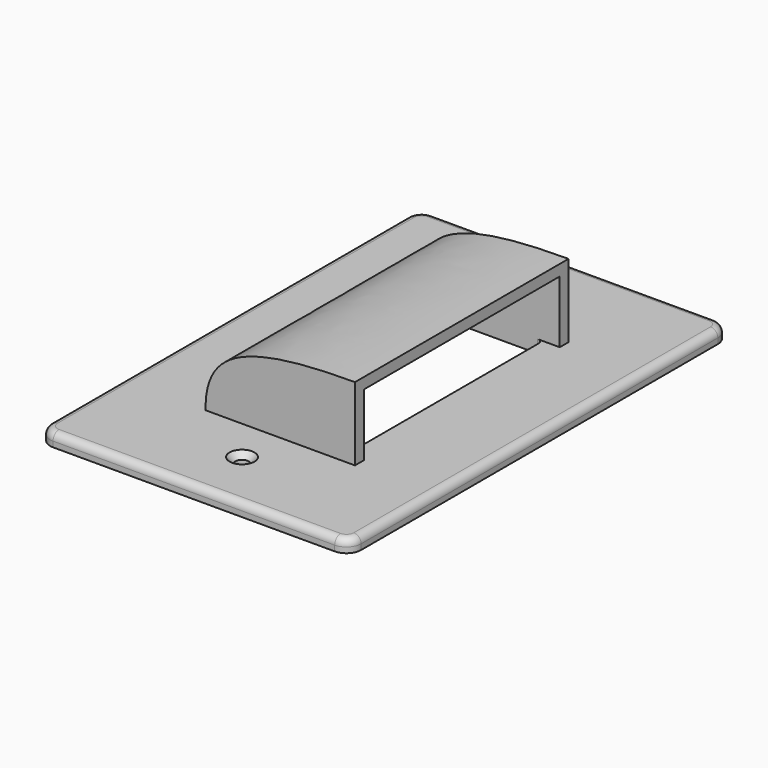
from build123d import *

# Parameters (mm, degrees)
SKETCH_W        = 84.8
SKETCH_H        = 129.6
SKETCH_R        = 1.8
SKETCH_W_2      = 33.2
SKETCH_H_2      = 66.8
PAD_DEPTH       = 3.5
CHAMFER_SIZE    = 1.6
FILLET_R        = 4
FILLET001_R     = 2
FILLET002_R     = 1.4
PAD001_DEPTH    = 20
POCKET_START    = -3
POCKET_DEPTH    = 66.8
POCKET001_DEPTH = 101.201


with BuildPart() as part:
    # Sketch → Pad (new body)
    with BuildSketch(Plane.XY):
        Rectangle(SKETCH_W, SKETCH_H)
        with Locations((0, 48.4)):
            Circle(SKETCH_R, mode=Mode.SUBTRACT)
        with Locations((0, -48.4)):
            Circle(SKETCH_R, mode=Mode.SUBTRACT)
        Rectangle(SKETCH_W_2, SKETCH_H_2, mode=Mode.SUBTRACT)
    extrude(amount=PAD_DEPTH)

    # Chamfer
    chamfer_edges = [part.edges().sort_by_distance(p)[0] for p in [
        (-1.8, -48.4, 3.5),
        (-1.8, 48.4, 3.5),
    ]]
    chamfer(chamfer_edges, length=CHAMFER_SIZE)

    # Fillet
    fillet_edges = [part.edges().sort_by_distance(p)[0] for p in [
        (42.4, 64.8, 1.75),
        (-42.4, 64.8, 1.75),
        (42.4, -64.8, 1.75),
        (-42.4, -64.8, 1.75),
    ]]
    fillet(fillet_edges, radius=FILLET_R)

    # Fillet001
    fillet001_edges = [part.edges().sort_by_distance(p)[0] for p in [
        (-41.228427, -63.628427, 3.5),
        (0, -64.8, 3.5),
        (41.228427, -63.628427, 3.5),
        (42.4, 0, 3.5),
        (41.228427, 63.628427, 3.5),
        (0, 64.8, 3.5),
        (-41.228427, 63.628427, 3.5),
        (-42.4, 0, 3.5),
    ]]
    fillet(fillet001_edges, radius=FILLET001_R)

    # Fillet002
    fillet002_edges = [part.edges().sort_by_distance(p)[0] for p in [
        (-16.6, -33.4, 1.75),
        (16.6, 33.4, 1.75),
        (16.6, -33.4, 1.75),
        (-16.6, 33.4, 1.75),
    ]]
    fillet(fillet002_edges, radius=FILLET002_R)

    # Sketch001 (on Face20 of Fillet002) → Pad001 (join)
    with BuildSketch(Plane.XY.offset(3.5)):
        Polygon((21.2, 36.4), (-19.6, 36.4), (-19.6, -36.4), (21.2, -36.4), (21.2, -33.4), (21.2, 33.4), align=None)
    extrude(amount=PAD001_DEPTH)

    # Sketch002 (on Face35 of Pad001) → Pocket (cut)
    with BuildSketch(Plane.XZ.offset(36.4).offset(POCKET_START)):
        with BuildLine():
            Line((21.2, 20.5), (21.2, 3.5))
            Line((21.2, 3.5), (-16.6, 3.5))
            add(Edge.make_bspline(
                [(-16.6, 3.5), (-16.6, 13.299617), (-13.358306, 20.5), (21.2, 20.5)],
                knots=[0, 0, 0, 0, 1, 1, 1, 1], degree=3))
        make_face()
    extrude(amount=-POCKET_DEPTH, mode=Mode.SUBTRACT)

    # Sketch003 (on Face43 of Pocket) → Pocket001 (cut, through all)
    with BuildSketch(Plane.XZ.offset(36.4)):
        with BuildLine():
            add(Edge.make_bspline(
                [(-19.6, 3.5), (-19.6, 17.472133), (-10.864879, 23.5), (21.2, 23.5)],
                knots=[0, 0, 0, 0, 1, 1, 1, 1], degree=3))
            Line((21.2, 23.5), (-19.6, 23.5))
            Line((-19.6, 23.5), (-19.6, 3.5))
        make_face()
    extrude(amount=-POCKET001_DEPTH, mode=Mode.SUBTRACT)


solid = part.part
